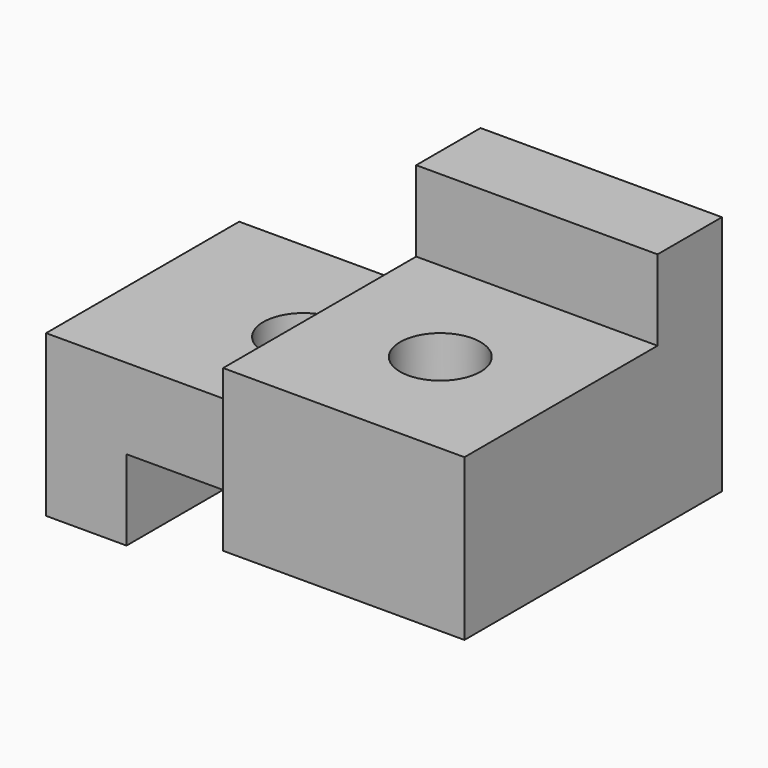
from build123d import *

# Parameters (mm, degrees)
F0_R     = 3.175
F0_W     = 6.35
F0_H     = 19.05
F1_DEPTH = 6.35
F2_DEPTH = 12.7
F0_W_2   = 19.05
F0_H_2   = 6.35
F3_DEPTH = 19.05
F4_DEPTH = 6.35


with BuildPart() as f1:
    # F0 (on Top) → F1 (new body)
    with BuildSketch(Plane.XY):
        Polygon((-6.35, 19.05), (-12.7, 19.05), (-12.7, 0), (0, 0), (0, 12.7), (0, 19.05), align=None)
        with Locations((-6.35, 9.525)):
            Circle(F0_R, mode=Mode.SUBTRACT)
        with Locations((-15.875, 9.525)):
            Rectangle(F0_W, F0_H)
    extrude(amount=F1_DEPTH)

    # F0 (on Top) → F2 (join)
    with BuildSketch(Plane.XY):
        Polygon((0, 12.7), (0, 0), (0, -6.35), (19.05, -6.35), (19.05, 12.7), align=None)
        with Locations((9.525, 3.175)):
            Circle(F0_R, mode=Mode.SUBTRACT)
    extrude(amount=F2_DEPTH)

    # F0 (on Top) → F3 (join)
    with BuildSketch(Plane.XY):
        with Locations((9.525, 15.875)):
            Rectangle(F0_W_2, F0_H_2)
    extrude(amount=F3_DEPTH)

    # F0 (on Top) → F4 (join)
    with BuildSketch(Plane.XY):
        with Locations((-15.875, 9.525)):
            Rectangle(F0_W, F0_H)
    extrude(amount=-F4_DEPTH)


solid = f1.part
